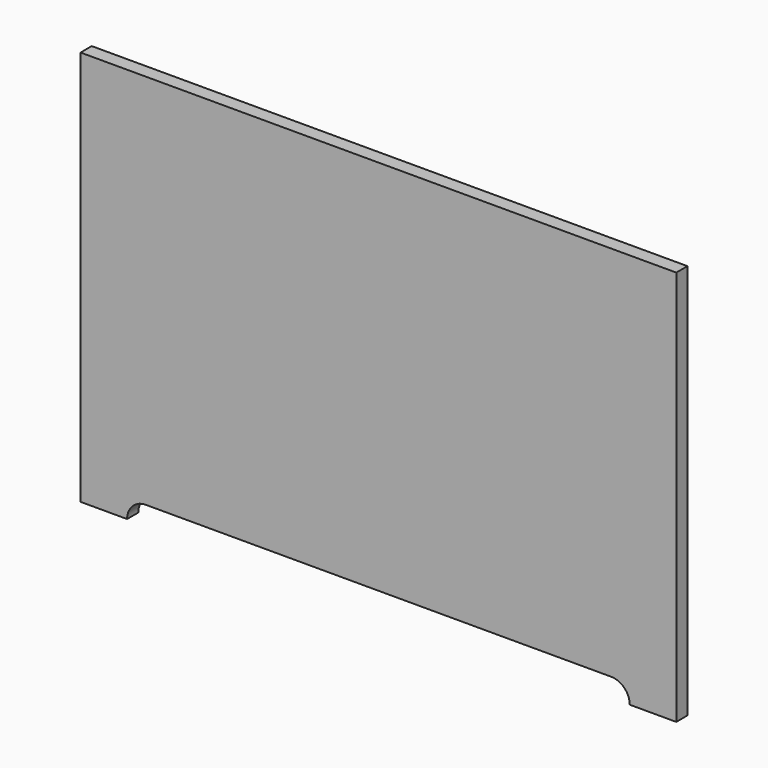
from build123d import *

# Parameters (mm, degrees)
F0_W     = 812.8
F0_H     = 539.75
F1_DEPTH = 19.05
F3_DEPTH = 25.4


with BuildPart() as f1:
    # F0 (on Front) → F1 (new body)
    with BuildSketch(Plane.XZ):
        with Locations((406.4, 269.875)):
            Rectangle(F0_W, F0_H)
    extrude(amount=F1_DEPTH)

    # F2 (on face) → F3 (cut)
    with BuildSketch(Plane.XZ.offset(19.05)):
        with BuildLine():
            Line((406.4, 25.4), (88.9, 25.4))
            ThreePointArc((88.9, 25.4), (70.939488, 17.960512), (63.5, 0))
            Line((63.5, 0), (749.3, 0))
            ThreePointArc((749.3, 0), (741.860512, 17.960512), (723.9, 25.4))
            Line((723.9, 25.4), (406.4, 25.4))
        make_face()
    extrude(amount=-F3_DEPTH, mode=Mode.SUBTRACT)


solid = f1.part
